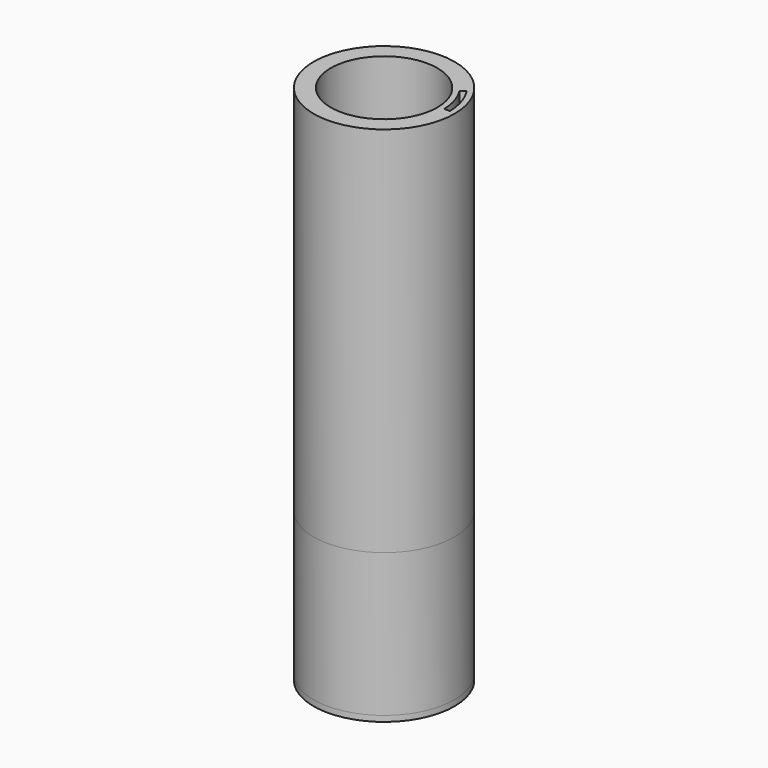
from build123d import *

# Parameters (mm, degrees)
F0_R     = 12.3
F0_R_2   = 9.3
F1_DEPTH = 90
F0_R_3   = 7.1
F2_DEPTH = 1
F3_DEPTH = 25


with BuildPart() as f1:
    # F0 (on Top) → F1 (new body)
    with BuildSketch(Plane.XY):
        Circle(F0_R)
        Circle(F0_R_2, mode=Mode.SUBTRACT)
        with BuildLine():
            Line((11.297389, 0.242893), (10.297389, 0.242893))
            ThreePointArc((10.297389, 0.242893), (9.821725, 3.099395), (8.571677, 5.711529))
            Line((8.571677, 5.711529), (9.403648, 6.265893))
            ThreePointArc((9.403648, 6.265893), (10.775075, 3.387881), (11.297389, 0.242893))
        make_face(mode=Mode.SUBTRACT)
    extrude(amount=F1_DEPTH)


with BuildPart() as f2:
    # F0 (on Top) → F2 (new body)
    with BuildSketch(Plane.XY):
        Circle(F0_R)
        Circle(F0_R_2, mode=Mode.SUBTRACT)
        with BuildLine():
            Line((11.297389, 0.242893), (10.297389, 0.242893))
            ThreePointArc((10.297389, 0.242893), (9.821725, 3.099395), (8.571677, 5.711529))
            Line((8.571677, 5.711529), (9.403648, 6.265893))
            ThreePointArc((9.403648, 6.265893), (10.775075, 3.387881), (11.297389, 0.242893))
        make_face(mode=Mode.SUBTRACT)
        Circle(F0_R_2)
        Circle(F0_R_3, mode=Mode.SUBTRACT)
    extrude(amount=-F2_DEPTH)


with BuildPart() as f3:
    # F0 (on Top) → F3 (new body)
    with BuildSketch(Plane.XY):
        Circle(F0_R)
        Circle(F0_R_2, mode=Mode.SUBTRACT)
        with BuildLine():
            Line((11.297389, 0.242893), (10.297389, 0.242893))
            ThreePointArc((10.297389, 0.242893), (9.821725, 3.099395), (8.571677, 5.711529))
            Line((8.571677, 5.711529), (9.403648, 6.265893))
            ThreePointArc((9.403648, 6.265893), (10.775075, 3.387881), (11.297389, 0.242893))
        make_face(mode=Mode.SUBTRACT)
    extrude(amount=F3_DEPTH)


solid = Compound([f1.part, f2.part, f3.part])
